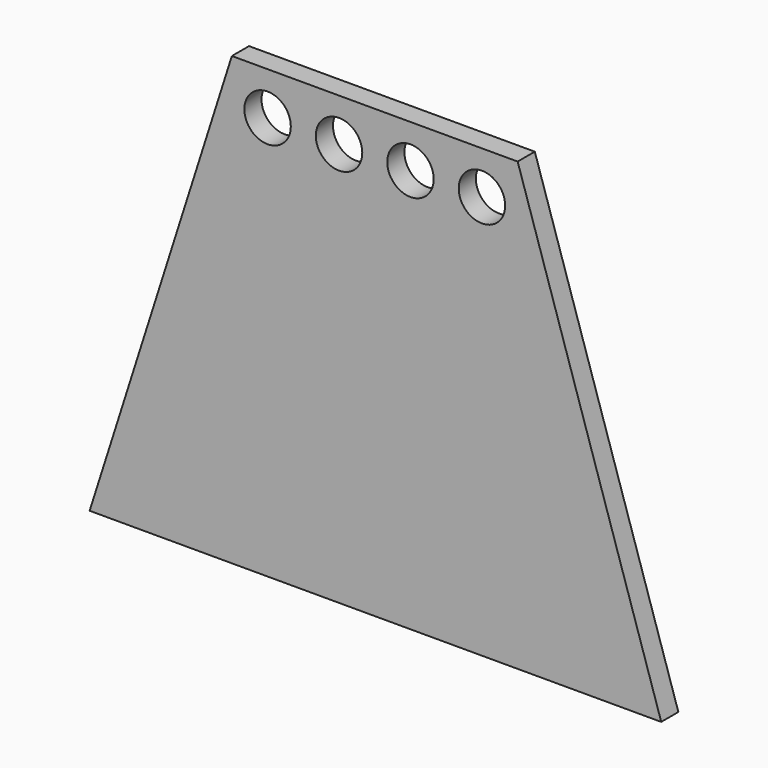
from build123d import *

# Parameters (mm, degrees)
F1_DEPTH = 3
F2_R     = 3.25
F3_DEPTH = 3.001


with BuildPart() as f1:
    # F0 (on Front) → F1 (new body)
    with BuildSketch(Plane.XZ):
        Polygon((21.410615, 30.374278), (-18.589385, 30.374278), (-38.496361, -32.137355), (41.503639, -32.137355), align=None)
    extrude(amount=F1_DEPTH)

    # F2 (on face) → F3 (cut, through all)
    with BuildSketch(Plane.XZ.offset(3)):
        with Locations((-13.589385, 24.374278)):
            Circle(F2_R)
        with Locations((-3.589385, 24.374278)):
            Circle(F2_R)
        with Locations((6.410615, 24.374278)):
            Circle(F2_R)
        with Locations((16.410615, 24.374278)):
            Circle(F2_R)
    extrude(amount=-F3_DEPTH, mode=Mode.SUBTRACT)


solid = f1.part
